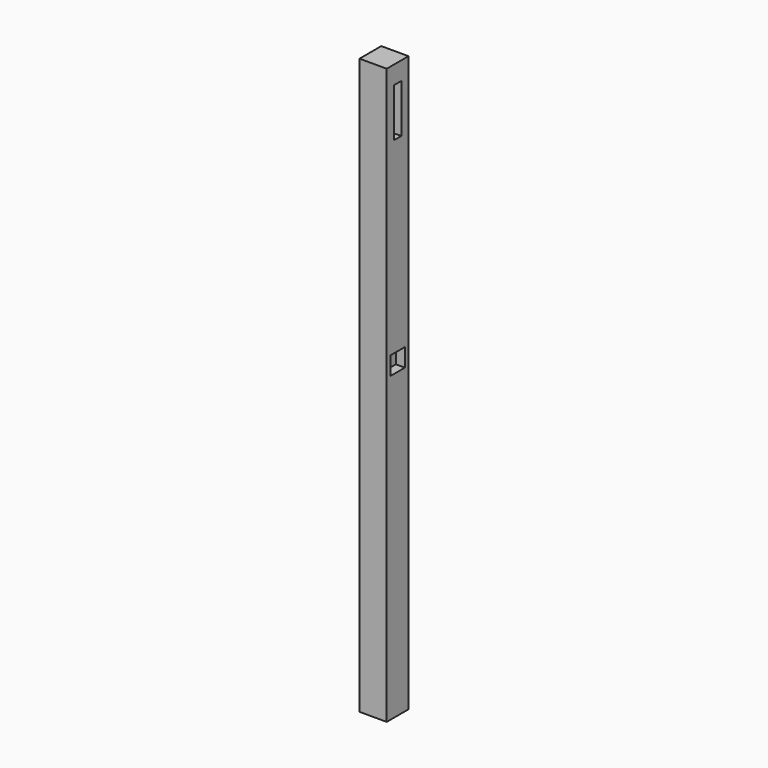
from build123d import *

# Parameters (mm, degrees)
F0_W     = 45
F0_H     = 45
F1_DEPTH = 475
F2_W     = 15
F2_H     = 80
F2_W_2   = 30
F2_H_2   = 30
F3_DEPTH = 15


with BuildPart() as f1:
    # F0 (on Top) → F1 (new body, symmetric)
    with BuildSketch(Plane.XY):
        Rectangle(F0_W, F0_H)
    extrude(amount=F1_DEPTH, both=True)

    # F2 (on face) → F3 (cut)
    with BuildSketch(Plane.YZ.offset(22.5)):
        with Locations((0, 405)):
            Rectangle(F2_W, F2_H)
        with Locations((0, 40)):
            Rectangle(F2_W_2, F2_H_2)
    extrude(amount=-F3_DEPTH, mode=Mode.SUBTRACT)


solid = f1.part
